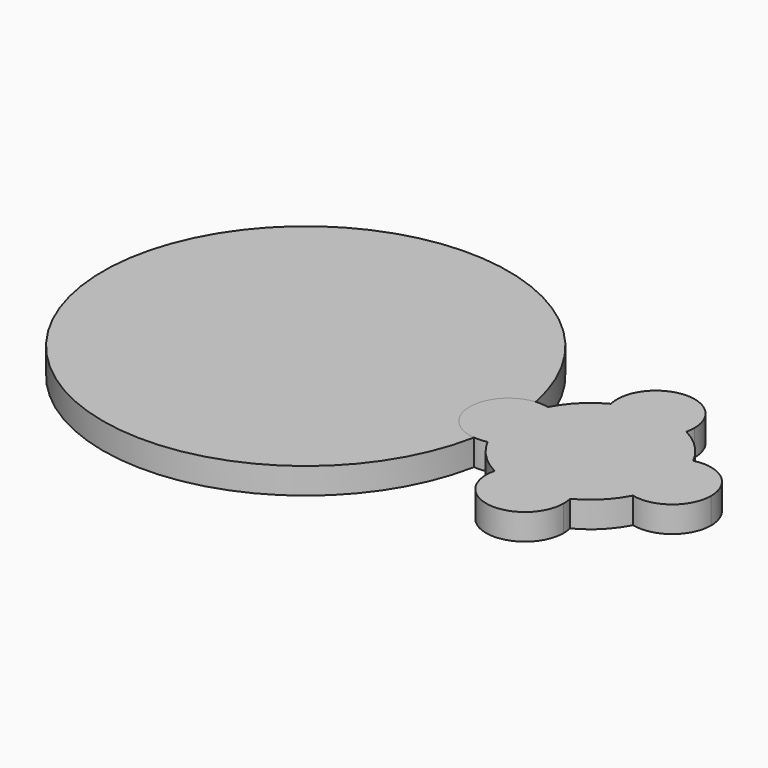
from build123d import *

# Parameters (mm, degrees)
F0_R     = 38.8732643142
F2_DEPTH = 5
F3_DEPTH = 5


with BuildPart() as f2:
    # F0 (on Top) → F2 (new body)
    with BuildSketch(Plane.XY):
        Circle(F0_R)
    extrude(amount=F2_DEPTH)


with BuildPart() as f3:
    # F1 (on Top) → F3 (new body)
    with BuildSketch(Plane.XY):
        with BuildLine():
            ThreePointArc((47.3482671345, 13.937176675), (54.5706376433, 15.6973733292), (61.7930081521, 13.937176675))
            ThreePointArc((61.7930081521, 13.937176675), (61.9513681347, 14.8109504944), (62.0044070793, 15.6973733292))
            ThreePointArc((62.0044070793, 15.6973733292), (53.6842148086, 23.0781038205), (47.3482671345, 13.937176675))
        make_face()
        with BuildLine():
            ThreePointArc((40.6334609684, -7.2223705088), (38.8732643142, 0), (40.6334609684, 7.2223705088))
            ThreePointArc((40.6334609684, 7.2223705088), (31.4394948781, 0), (40.6334609684, -7.2223705088))
        make_face()
        with BuildLine():
            ThreePointArc((46.3070337502, 0), (44.7190244921, 4.5921689831), (40.6334609684, 7.2223705088))
            ThreePointArc((40.6334609684, 7.2223705088), (38.8732643142, 0), (40.6334609684, -7.2223705088))
            ThreePointArc((40.6334609684, -7.2223705088), (44.7190244921, -4.5921689831), (46.3070337502, 0))
        make_face()
        with BuildLine():
            ThreePointArc((47.3482671345, 13.937176675), (54.5706376433, 8.2636038932), (61.7930081521, 13.937176675))
            ThreePointArc((61.7930081521, 13.937176675), (54.5706376433, 15.6973733292), (47.3482671345, 13.937176675))
        make_face()
        with BuildLine():
            ThreePointArc((68.5078143183, -7.2223705088), (69.8216145769, -3.716884718), (70.2680109725, 0))
            ThreePointArc((70.2680109725, 0), (69.8216145769, 3.716884718), (68.5078143183, 7.2223705088))
            ThreePointArc((68.5078143183, 7.2223705088), (62.8342415365, 0), (68.5078143183, -7.2223705088))
        make_face()
        with BuildLine():
            ThreePointArc((68.5078143183, 7.2223705088), (69.8216145769, 3.716884718), (70.2680109725, 0))
            ThreePointArc((70.2680109725, 0), (69.8216145769, -3.716884718), (68.5078143183, -7.2223705088))
            ThreePointArc((68.5078143183, -7.2223705088), (74.8601799556, -5.845760178), (77.7017804085, 0))
            ThreePointArc((77.7017804085, 0), (74.8601799556, 5.845760178), (68.5078143183, 7.2223705088))
        make_face()
        with BuildLine():
            ThreePointArc((62.0044070793, -15.6973733292), (61.9513681347, -14.8109504944), (61.7930081521, -13.937176675))
            ThreePointArc((61.7930081521, -13.937176675), (54.5706376433, -15.6973733292), (47.3482671345, -13.937176675))
            ThreePointArc((47.3482671345, -13.937176675), (53.6842148086, -23.0781038205), (62.0044070793, -15.6973733292))
        make_face()
        with BuildLine():
            ThreePointArc((47.3482671345, -13.937176675), (54.5706376433, -15.6973733292), (61.7930081521, -13.937176675))
            ThreePointArc((61.7930081521, -13.937176675), (54.5706376433, -8.2636038932), (47.3482671345, -13.937176675))
        make_face()
        with BuildLine():
            ThreePointArc((68.5078143183, -7.2223705088), (62.8342415365, 0), (68.5078143183, 7.2223705088))
            ThreePointArc((68.5078143183, 7.2223705088), (65.6703567712, 11.0997191279), (61.7930081521, 13.937176675))
            ThreePointArc((61.7930081521, 13.937176675), (54.5706376433, 8.2636038932), (47.3482671345, 13.937176675))
            ThreePointArc((47.3482671345, 13.937176675), (43.4709185155, 11.0997191279), (40.6334609684, 7.2223705088))
            ThreePointArc((40.6334609684, 7.2223705088), (44.7190244921, 4.5921689831), (46.3070337502, 0))
            ThreePointArc((46.3070337502, 0), (44.7190244921, -4.5921689831), (40.6334609684, -7.2223705088))
            ThreePointArc((40.6334609684, -7.2223705088), (43.4709185155, -11.0997191279), (47.3482671345, -13.937176675))
            ThreePointArc((47.3482671345, -13.937176675), (54.5706376433, -8.2636038932), (61.7930081521, -13.937176675))
            ThreePointArc((61.7930081521, -13.937176675), (65.6703567712, -11.0997191279), (68.5078143183, -7.2223705088))
        make_face()
    extrude(amount=F3_DEPTH)


solid = Compound([f2.part, f3.part])
